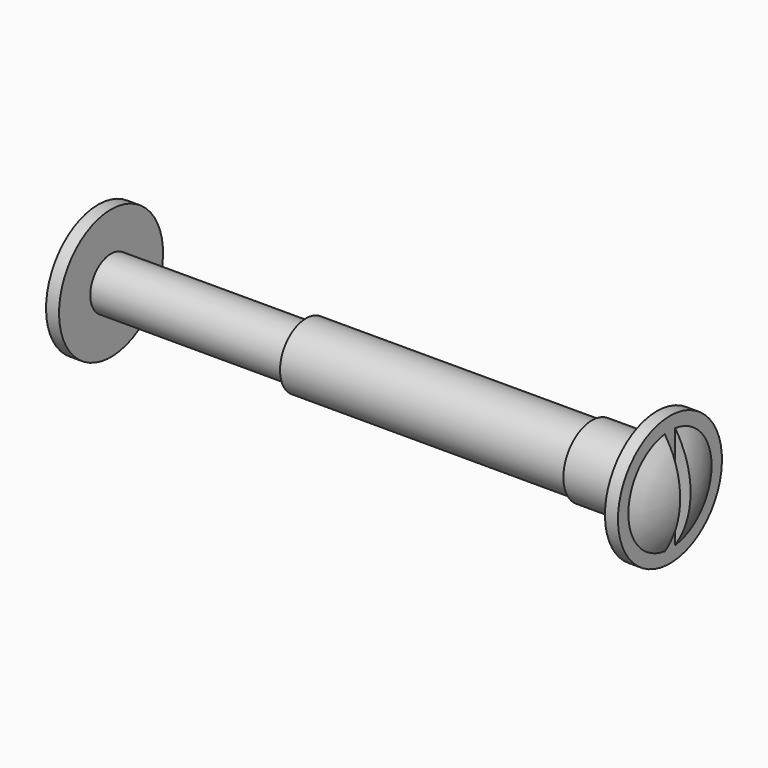
from build123d import *

# Parameters (mm, degrees)
F3_DEPTH = 1.2
F0_W     = 22
F0_H     = 0.5
F6_DEPTH = 1.2


with BuildPart() as f1:
    # F0 (on Front) → F1 (revolve)
    with BuildSketch(Plane.XZ):
        with BuildLine():
            Line((-15, 0), (0, 0))
            Line((0, 0), (0, 2))
            Line((0, 2), (-15, 2))
            Line((-15, 2), (-15, 5))
            Line((-15, 5), (-16, 5))
            Line((-16, 5), (-16, 4))
            ThreePointArc((-16, 4), (-16.893538, 2.088061), (-17.2, 0))
            Line((-17.2, 0), (-16, 0))
            Line((-16, 0), (-15, 0))
        make_face()
    revolve(axis=Axis((-7.5, 0, 0), (-1, 0, 0)))

    # F2 (on face) → F3 (cut, through all)
    with BuildSketch(Plane(origin=(-16, 0, 0), x_dir=(0, -1, 0), z_dir=(-1, 0, 0))):
        with BuildLine():
            ThreePointArc((0.5, 3.968627), (0, 4), (-0.5, 3.968627))
            Line((-0.5, 3.968627), (-0.5, -3.968627))
            ThreePointArc((-0.5, -3.968627), (0, -4), (0.5, -3.968627))
            Line((0.5, -3.968627), (0.5, 3.968627))
        make_face()
    extrude(amount=F3_DEPTH, mode=Mode.SUBTRACT)


with BuildPart() as f4:
    # F0 (on Front) → F4 (revolve)
    with BuildSketch(Plane.XZ):
        with Locations((11, 2.25)):
            Rectangle(F0_W, F0_H)
        Polygon((22, 2.5), (22, 2), (27, 2), (27, 2.75), (22, 2.75), align=None)
        Polygon((27, 2.75), (27, 2), (27, 0), (28, 0), (28, 4), (28, 5), (27, 5), align=None)
        with BuildLine():
            Line((28, 4), (28, 0))
            Line((28, 0), (29.2, 0))
            ThreePointArc((29.2, 0), (28.893538, 2.088061), (28, 4))
        make_face()
    revolve(axis=Axis((-7.5, 0, 0), (-1, 0, 0)))

    # F5 (on face) → F6 (cut, through all)
    with BuildSketch(Plane.YZ.offset(28)):
        with BuildLine():
            Line((-0.5, 3.968627), (-0.5, -3.968627))
            ThreePointArc((-0.5, -3.968627), (0, -4), (0.5, -3.968627))
            Line((0.5, -3.968627), (0.5, 3.968627))
            ThreePointArc((0.5, 3.968627), (0, 4), (-0.5, 3.968627))
        make_face()
    extrude(amount=F6_DEPTH, mode=Mode.SUBTRACT)


solid = Compound([f1.part, f4.part])
